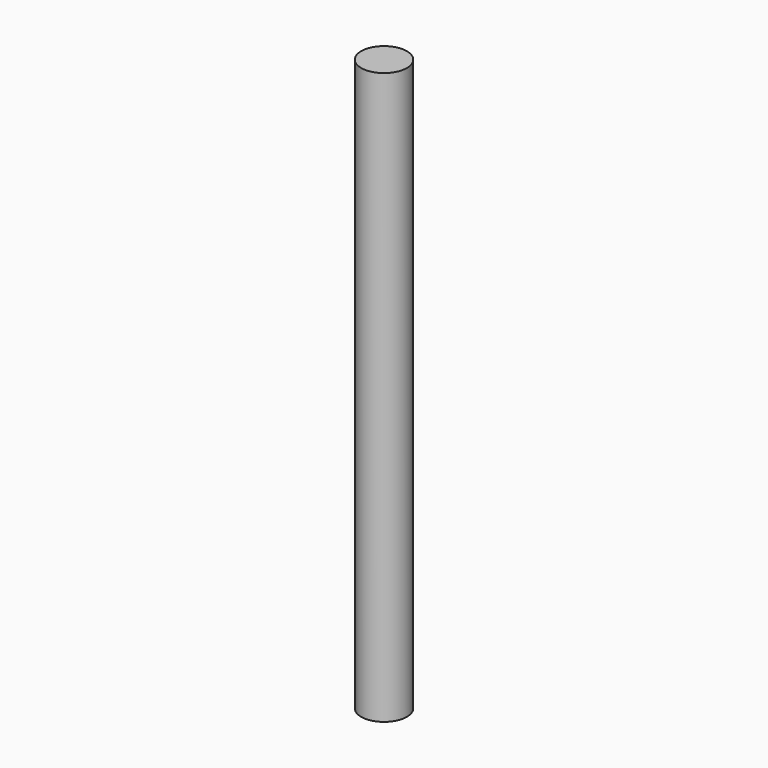
from build123d import *

# Parameters (mm, degrees)
F0_R     = 152.4
F1_DEPTH = 3810
F2_T     = -25.4
F4_R     = 142.288685
F5_DEPTH = 12.7


with BuildPart() as f1:
    # F0 (on Top) → F1 (new body)
    with BuildSketch(Plane.XY):
        Circle(F0_R)
    extrude(amount=F1_DEPTH)

    # F2
    f2_openings = [f1.faces().sort_by_distance(p)[0] for p in [
        (0, 0, 0),
    ]]
    offset(amount=F2_T, openings=f2_openings)

    # F4 (on offset) → F5 (join)
    with BuildSketch(Plane.XY.offset(25.4)):
        Circle(F4_R)
    extrude(amount=F5_DEPTH)


solid = f1.part
